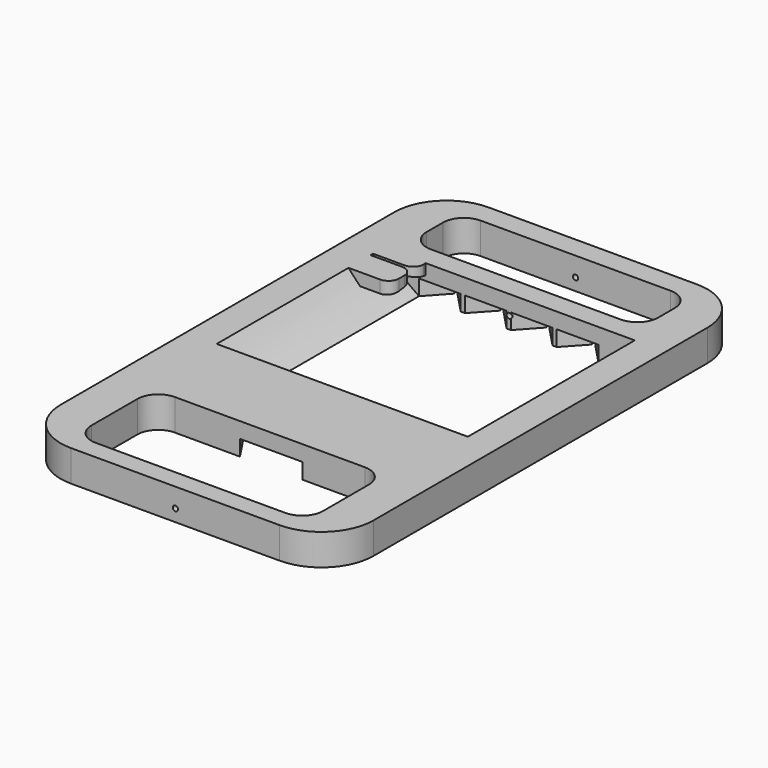
from build123d import *

# Parameters (mm, degrees)
F1_DEPTH      = 3
F2_R          = 15.7802685444
F3_DEPTH      = 15
F3_DEPTH_BACK = 5
F5_DEPTH      = 25
F7_DEPTH      = 1.5
F9_DEPTH      = 7
F10_R         = 1
F11_R         = 0.25
F12_DEPTH     = 60


with BuildPart() as f1:
    # F0 (on Top) → F1 (new body)
    with BuildSketch(Plane.XY):
        with BuildLine():
            Line((-10, -25), (10, -25))
            ThreePointArc((10, -25), (13.5355339059, -23.5355339059), (15, -20))
            Line((15, -20), (15, 20))
            ThreePointArc((15, 20), (13.5355339059, 23.5355339059), (10, 25))
            Line((10, 25), (-10, 25))
            ThreePointArc((-10, 25), (-13.5355339059, 23.5355339059), (-15, 20))
            Line((-15, 20), (-15, -20))
            ThreePointArc((-15, -20), (-13.5355339059, -23.5355339059), (-10, -25))
        make_face()
    extrude(amount=F1_DEPTH)

    # F2 (on Front) → F3 (cut, two sides)
    with BuildSketch(Plane.XZ) as f3_sk:
        with Locations((0, 13.2022947073)):
            Circle(F2_R)
    extrude(amount=-F3_DEPTH, mode=Mode.SUBTRACT)
    extrude(f3_sk.sketch, amount=F3_DEPTH_BACK, mode=Mode.SUBTRACT)

    # F4 (on face) → F5 (cut)
    with BuildSketch(Plane.XY.offset(3)):
        with BuildLine():
            ThreePointArc((11.1025739461, -15.6803686619), (10.5167875085, -14.2661550995), (9.1025739461, -13.6803686619))
            Line((9.1025739461, -13.6803686619), (-9.1025739461, -13.6803686619))
            ThreePointArc((-9.1025739461, -13.6803686619), (-10.5167875085, -14.2661550995), (-11.1025739461, -15.6803686619))
            Line((-11.1025739461, -15.6803686619), (-11.1025739461, -21.1788791716))
            ThreePointArc((-11.1025739461, -21.1788791716), (-10.5167875085, -22.593092734), (-9.1025739461, -23.1788791716))
            Line((-9.1025739461, -23.1788791716), (9.1025739461, -23.1788791716))
            ThreePointArc((9.1025739461, -23.1788791716), (10.5167875085, -22.593092734), (11.1025739461, -21.1788791716))
            Line((11.1025739461, -21.1788791716), (11.1025739461, -15.6803686619))
        make_face()
        with BuildLine():
            ThreePointArc((11.1025739461, 20.9576397687), (10.5167875085, 22.3718533311), (9.1025739461, 22.9576397687))
            Line((9.1025739461, 22.9576397687), (-9.1025739461, 22.9576397687))
            ThreePointArc((-9.1025739461, 22.9576397687), (-10.5167875085, 22.3718533311), (-11.1025739461, 20.9576397687))
            Line((-11.1025739461, 20.9576397687), (-11.1025739461, 18.9862303883))
            ThreePointArc((-11.1025739461, 18.9862303883), (-10.5167875085, 17.5720168259), (-9.1025739461, 16.9862303883))
            Line((-9.1025739461, 16.9862303883), (9.1025739461, 16.9862303883))
            ThreePointArc((9.1025739461, 16.9862303883), (10.5167875085, 17.5720168259), (11.1025739461, 18.9862303883))
            Line((11.1025739461, 18.9862303883), (11.1025739461, 20.9576397687))
        make_face()
    extrude(amount=-F5_DEPTH, mode=Mode.SUBTRACT)

    # F6 (on face) → F7 (cut)
    with BuildSketch(Plane(origin=(0, 0, 0), x_dir=(1, 0, 0), z_dir=(0, 0, -1))):
        Polygon((8.6438585016, 5), (3.1369663253, 13.6803686619), (-2.8630336747, 13.6803686619), (-8.6438585016, 5), align=None)
        Polygon((-6.5296259269, -16.9862303883), (-4.6438585016, -15), (-8.6438585016, -15), (-6.8296259269, -16.9862303883), align=None)
        Polygon((-0.2438585016, -15), (-4.2438585016, -15), (-2.4296259269, -16.9862303883), (-2.1296259269, -16.9862303883), align=None)
        Polygon((4.1561414984, -15), (0.1561414984, -15), (1.9703740731, -16.9862303883), (2.2703740731, -16.9862303883), align=None)
        Polygon((8.5561414984, -15), (4.5561414984, -15), (6.3703740731, -16.9862303883), (6.6703740731, -16.9862303883), align=None)
    extrude(amount=-F7_DEPTH, mode=Mode.SUBTRACT)

    # F8 (on face) → F9 (join)
    with BuildSketch(Plane(origin=(-15, 0, 0), x_dir=(0, -1, 0), z_dir=(-1, 0, 0))):
        Polygon((-13.7345343828, 3), (-16.5546499193, 3), (-16.3944102824, 1.7589493655), (-13.7345343828, 2.1682542283), align=None)
        Polygon((-10.7979638994, 3), (-13.4345343828, 3), (-13.4345343828, 2.1682542283), (-10.7979638994, 1.8060837174), align=None)
    extrude(amount=-F9_DEPTH)

    # F10
    f10_edges = [f1.edges().sort_by_distance(p)[0] for p in [
        (-8, 10.797964, 2.403042),
        (-8, 13.434534, 2.584127),
        (-8, 13.734534, 2.584127),
    ]]
    fillet(f10_edges, radius=F10_R)

    # F11 (on face) → F12 (cut)
    with BuildSketch(Plane.XZ.offset(25)):
        with Locations((0, 1.1609706562)):
            Circle(F11_R)
    extrude(amount=-F12_DEPTH, mode=Mode.SUBTRACT)


solid = f1.part
